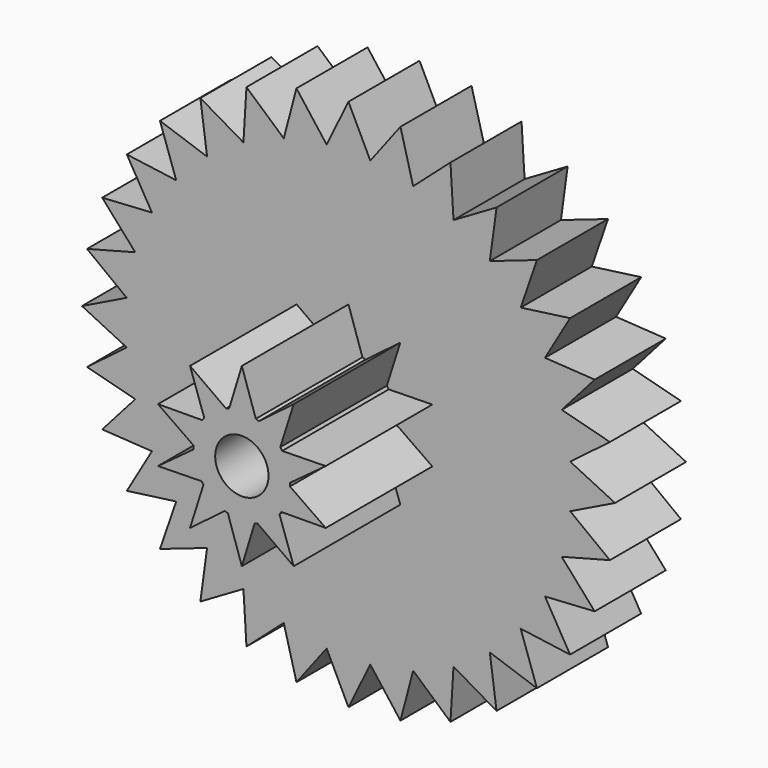
from build123d import *

# Parameters (mm, degrees)
F1_DEPTH = 5.08
F3_DEPTH = 7.62
F4_R     = 1.524
F5_DEPTH = 12.7


with BuildPart() as f1:
    # F0 (on Front) → F1 (new body)
    with BuildSketch(Plane.XZ):
        with BuildLine():
            ThreePointArc((-5.9644082014, 11.2123072919), (-4.860079591, 11.7332700629), (-3.7108250339, 12.1457720038))
            Line((-3.7108250339, 12.1457720038), (-3.698536468, 12.1924407546))
            Line((-3.698536468, 12.1924407546), (-5.8320955092, 14.0799240755))
            Line((-5.8320955092, 14.0799240755), (-6.0060973198, 11.2366177537))
            Line((-6.0060973198, 11.2366177537), (-5.9644082014, 11.2123072919))
        make_face()
        with BuildLine():
            Line((6.0060973198, -11.2366177537), (5.9644082014, -11.2123072919))
            ThreePointArc((5.9644082014, -11.2123072919), (4.860079591, -11.7332700629), (3.7108250339, -12.1457720038))
            Line((3.7108250339, -12.1457720038), (3.698536468, -12.1924407546))
            Line((3.698536468, -12.1924407546), (5.8320955092, -14.0799240755))
            Line((5.8320955092, -14.0799240755), (6.0060973198, -11.2366177537))
        make_face()
        with BuildLine():
            Line((-11.2366177537, -6.0060973198), (-11.2123072919, -5.9644082014))
            ThreePointArc((-11.2123072919, -5.9644082014), (-11.7332700629, -4.860079591), (-12.1457720038, -3.7108250339))
            Line((-12.1457720038, -3.7108250339), (-12.1924407546, -3.698536468))
            Line((-12.1924407546, -3.698536468), (-14.0799240755, -5.8320955092))
            Line((-14.0799240755, -5.8320955092), (-11.2366177537, -6.0060973198))
        make_face()
        with BuildLine():
            Line((12.6797150948, -1.2488429339), (12.6363404513, -1.27))
            ThreePointArc((12.6363404513, -1.27), (12.4559730611, -2.4776470896), (12.1604642679, -3.6623911301))
            Line((12.1604642679, -3.6623911301), (12.1924407546, -3.698536468))
            Line((12.1924407546, -3.698536468), (14.9471676733, -2.9731765075))
            Line((14.9471676733, -2.9731765075), (12.6797150948, -1.2488429339))
        make_face()
        with BuildLine():
            Line((-1.2488429339, -12.6797150948), (-1.27, -12.6363404513))
            ThreePointArc((-1.27, -12.6363404513), (-2.4776470896, -12.4559730611), (-3.6623911301, -12.1604642679))
            Line((-3.6623911301, -12.1604642679), (-3.698536468, -12.1924407546))
            Line((-3.698536468, -12.1924407546), (-2.9731765075, -14.9471676733))
            Line((-2.9731765075, -14.9471676733), (-1.2488429339, -12.6797150948))
        make_face()
        with BuildLine():
            ThreePointArc((-12.6363404513, 1.27), (-12.4559730611, 2.4776470896), (-12.1604642679, 3.6623911301))
            Line((-12.1604642679, 3.6623911301), (-12.1924407546, 3.698536468))
            Line((-12.1924407546, 3.698536468), (-14.9471676733, 2.9731765075))
            Line((-14.9471676733, 2.9731765075), (-12.6797150948, 1.2488429339))
            Line((-12.6797150948, 1.2488429339), (-12.6363404513, 1.27))
        make_face()
        with BuildLine():
            ThreePointArc((-1.2196304216, 12.6413014217), (0, 12.7), (1.2196304216, 12.6413014217))
            Line((1.2196304216, 12.6413014217), (1.2488429339, 12.6797150948))
            Line((1.2488429339, 12.6797150948), (0, 15.24))
            Line((0, 15.24), (-1.2488429339, 12.6797150948))
            Line((-1.2488429339, 12.6797150948), (-1.2196304216, 12.6413014217))
        make_face()
        with BuildLine():
            ThreePointArc((1.27, 12.6363404513), (2.4776470896, 12.4559730611), (3.6623911301, 12.1604642679))
            Line((3.6623911301, 12.1604642679), (3.698536468, 12.1924407546))
            Line((3.698536468, 12.1924407546), (2.9731765075, 14.9471676733))
            Line((2.9731765075, 14.9471676733), (1.2488429339, 12.6797150948))
            Line((1.2488429339, 12.6797150948), (1.27, 12.6363404513))
        make_face()
        with BuildLine():
            ThreePointArc((12.6413014217, -1.2196304216), (12.6853168675, -0.6105210661), (12.7, 0))
            ThreePointArc((12.7, 0), (12.6853168675, 0.6105210661), (12.6413014217, 1.2196304216))
            ThreePointArc((12.6413014217, 1.2196304216), (12.6388460287, 1.2448176822), (12.6363404513, 1.27))
            ThreePointArc((12.6363404513, 1.27), (12.4559730611, 2.4776470896), (12.1604642679, 3.6623911301))
            ThreePointArc((12.1604642679, 3.6623911301), (12.1531422638, 3.6866154011), (12.1457720038, 3.7108250339))
            ThreePointArc((12.1457720038, 3.7108250339), (11.7332700629, 4.860079591), (11.2123072919, 5.9644082014))
            ThreePointArc((11.2123072919, 5.9644082014), (11.2004000572, 5.9867385577), (11.1884483497, 6.0090451427))
            ThreePointArc((11.1884483497, 6.0090451427), (10.5596640762, 7.0557419593), (9.8332676346, 8.0372164104))
            ThreePointArc((9.8332676346, 8.0372164104), (9.8172327577, 8.0567947089), (9.8011589, 8.0763410166))
            ThreePointArc((9.8011589, 8.0763410166), (8.9802561211, 8.9802561211), (8.0763410166, 9.8011589))
            ThreePointArc((8.0763410166, 9.8011589), (8.0567947089, 9.8172327577), (8.0372164104, 9.8332676346))
            ThreePointArc((8.0372164104, 9.8332676346), (7.0557419593, 10.5596640762), (6.0090451427, 11.1884483497))
            ThreePointArc((6.0090451427, 11.1884483497), (5.9867385577, 11.2004000572), (5.9644082014, 11.2123072919))
            ThreePointArc((5.9644082014, 11.2123072919), (4.860079591, 11.7332700629), (3.7108250339, 12.1457720038))
            ThreePointArc((3.7108250339, 12.1457720038), (3.6866154011, 12.1531422638), (3.6623911301, 12.1604642679))
            ThreePointArc((3.6623911301, 12.1604642679), (2.4776470896, 12.4559730611), (1.27, 12.6363404513))
            ThreePointArc((1.27, 12.6363404513), (1.2448176822, 12.6388460287), (1.2196304216, 12.6413014217))
            ThreePointArc((1.2196304216, 12.6413014217), (0, 12.7), (-1.2196304216, 12.6413014217))
            ThreePointArc((-1.2196304216, 12.6413014217), (-1.2448176822, 12.6388460287), (-1.27, 12.6363404513))
            ThreePointArc((-1.27, 12.6363404513), (-2.4776470896, 12.4559730611), (-3.6623911301, 12.1604642679))
            ThreePointArc((-3.6623911301, 12.1604642679), (-3.6866154011, 12.1531422638), (-3.7108250339, 12.1457720038))
            ThreePointArc((-3.7108250339, 12.1457720038), (-4.860079591, 11.7332700629), (-5.9644082014, 11.2123072919))
            ThreePointArc((-5.9644082014, 11.2123072919), (-5.9867385577, 11.2004000572), (-6.0090451427, 11.1884483497))
            ThreePointArc((-6.0090451427, 11.1884483497), (-7.0557419593, 10.5596640762), (-8.0372164104, 9.8332676346))
            ThreePointArc((-8.0372164104, 9.8332676346), (-8.0567947089, 9.8172327577), (-8.0763410166, 9.8011589))
            ThreePointArc((-8.0763410166, 9.8011589), (-8.9802561211, 8.9802561211), (-9.8011589, 8.0763410166))
            ThreePointArc((-9.8011589, 8.0763410166), (-9.8172327577, 8.0567947089), (-9.8332676346, 8.0372164104))
            ThreePointArc((-9.8332676346, 8.0372164104), (-10.5596640762, 7.0557419593), (-11.1884483497, 6.0090451427))
            ThreePointArc((-11.1884483497, 6.0090451427), (-11.2004000572, 5.9867385577), (-11.2123072919, 5.9644082014))
            ThreePointArc((-11.2123072919, 5.9644082014), (-11.7332700629, 4.860079591), (-12.1457720038, 3.7108250339))
            ThreePointArc((-12.1457720038, 3.7108250339), (-12.1531422638, 3.6866154011), (-12.1604642679, 3.6623911301))
            ThreePointArc((-12.1604642679, 3.6623911301), (-12.4559730611, 2.4776470896), (-12.6363404513, 1.27))
            ThreePointArc((-12.6363404513, 1.27), (-12.6388460287, 1.2448176822), (-12.6413014217, 1.2196304216))
            ThreePointArc((-12.6413014217, 1.2196304216), (-12.7, 0), (-12.6413014217, -1.2196304216))
            ThreePointArc((-12.6413014217, -1.2196304216), (-12.6388460287, -1.2448176822), (-12.6363404513, -1.27))
            ThreePointArc((-12.6363404513, -1.27), (-12.4559730611, -2.4776470896), (-12.1604642679, -3.6623911301))
            ThreePointArc((-12.1604642679, -3.6623911301), (-12.1531422638, -3.6866154011), (-12.1457720038, -3.7108250339))
            ThreePointArc((-12.1457720038, -3.7108250339), (-11.7332700629, -4.860079591), (-11.2123072919, -5.9644082014))
            ThreePointArc((-11.2123072919, -5.9644082014), (-11.2004000572, -5.9867385577), (-11.1884483497, -6.0090451427))
            ThreePointArc((-11.1884483497, -6.0090451427), (-10.5596640762, -7.0557419593), (-9.8332676346, -8.0372164104))
            ThreePointArc((-9.8332676346, -8.0372164104), (-9.8172327577, -8.0567947089), (-9.8011589, -8.0763410166))
            ThreePointArc((-9.8011589, -8.0763410166), (-8.9802561211, -8.9802561211), (-8.0763410166, -9.8011589))
            ThreePointArc((-8.0763410166, -9.8011589), (-8.0567947089, -9.8172327577), (-8.0372164104, -9.8332676346))
            ThreePointArc((-8.0372164104, -9.8332676346), (-7.0557419593, -10.5596640762), (-6.0090451427, -11.1884483497))
            ThreePointArc((-6.0090451427, -11.1884483497), (-5.9867385577, -11.2004000572), (-5.9644082014, -11.2123072919))
            ThreePointArc((-5.9644082014, -11.2123072919), (-4.860079591, -11.7332700629), (-3.7108250339, -12.1457720038))
            ThreePointArc((-3.7108250339, -12.1457720038), (-3.6866154011, -12.1531422638), (-3.6623911301, -12.1604642679))
            ThreePointArc((-3.6623911301, -12.1604642679), (-2.4776470896, -12.4559730611), (-1.27, -12.6363404513))
            ThreePointArc((-1.27, -12.6363404513), (-1.2448176822, -12.6388460287), (-1.2196304216, -12.6413014217))
            ThreePointArc((-1.2196304216, -12.6413014217), (0, -12.7), (1.2196304216, -12.6413014217))
            ThreePointArc((1.2196304216, -12.6413014217), (1.2448176822, -12.6388460287), (1.27, -12.6363404513))
            ThreePointArc((1.27, -12.6363404513), (2.4776470896, -12.4559730611), (3.6623911301, -12.1604642679))
            ThreePointArc((3.6623911301, -12.1604642679), (3.6866154011, -12.1531422638), (3.7108250339, -12.1457720038))
            ThreePointArc((3.7108250339, -12.1457720038), (4.860079591, -11.7332700629), (5.9644082014, -11.2123072919))
            ThreePointArc((5.9644082014, -11.2123072919), (5.9867385577, -11.2004000572), (6.0090451427, -11.1884483497))
            ThreePointArc((6.0090451427, -11.1884483497), (7.0557419593, -10.5596640762), (8.0372164104, -9.8332676346))
            ThreePointArc((8.0372164104, -9.8332676346), (8.0567947089, -9.8172327577), (8.0763410166, -9.8011589))
            ThreePointArc((8.0763410166, -9.8011589), (8.9802561211, -8.9802561211), (9.8011589, -8.0763410166))
            ThreePointArc((9.8011589, -8.0763410166), (9.8172327577, -8.0567947089), (9.8332676346, -8.0372164104))
            ThreePointArc((9.8332676346, -8.0372164104), (10.5596640762, -7.0557419593), (11.1884483497, -6.0090451427))
            ThreePointArc((11.1884483497, -6.0090451427), (11.2004000572, -5.9867385577), (11.2123072919, -5.9644082014))
            ThreePointArc((11.2123072919, -5.9644082014), (11.7332700629, -4.860079591), (12.1457720038, -3.7108250339))
            ThreePointArc((12.1457720038, -3.7108250339), (12.1531422638, -3.6866154011), (12.1604642679, -3.6623911301))
            ThreePointArc((12.1604642679, -3.6623911301), (12.4559730611, -2.4776470896), (12.6363404513, -1.27))
            ThreePointArc((12.6363404513, -1.27), (12.6388460287, -1.2448176822), (12.6413014217, -1.2196304216))
        make_face()
        with BuildLine():
            ThreePointArc((12.1604642679, 3.6623911301), (12.4559730611, 2.4776470896), (12.6363404513, 1.27))
            Line((12.6363404513, 1.27), (12.6797150948, 1.2488429339))
            Line((12.6797150948, 1.2488429339), (14.9471676733, 2.9731765075))
            Line((14.9471676733, 2.9731765075), (12.1924407546, 3.698536468))
            Line((12.1924407546, 3.698536468), (12.1604642679, 3.6623911301))
        make_face()
        with BuildLine():
            ThreePointArc((11.2123072919, 5.9644082014), (11.7332700629, 4.860079591), (12.1457720038, 3.7108250339))
            Line((12.1457720038, 3.7108250339), (12.1924407546, 3.698536468))
            Line((12.1924407546, 3.698536468), (14.0799240755, 5.8320955092))
            Line((14.0799240755, 5.8320955092), (11.2366177537, 6.0060973198))
            Line((11.2366177537, 6.0060973198), (11.2123072919, 5.9644082014))
        make_face()
        with BuildLine():
            ThreePointArc((9.8332676346, 8.0372164104), (10.5596640762, 7.0557419593), (11.1884483497, 6.0090451427))
            Line((11.1884483497, 6.0090451427), (11.2366177537, 6.0060973198))
            Line((11.2366177537, 6.0060973198), (12.6715968915, 8.4668903512))
            Line((12.6715968915, 8.4668903512), (9.8489778342, 8.0828472199))
            Line((9.8489778342, 8.0828472199), (9.8332676346, 8.0372164104))
        make_face()
        with BuildLine():
            ThreePointArc((8.0763410166, 9.8011589), (8.9802561211, 8.9802561211), (9.8011589, 8.0763410166))
            Line((9.8011589, 8.0763410166), (9.8489778342, 8.0828472199))
            Line((9.8489778342, 8.0828472199), (10.7763073453, 10.7763073453))
            Line((10.7763073453, 10.7763073453), (8.0828472199, 9.8489778342))
            Line((8.0828472199, 9.8489778342), (8.0763410166, 9.8011589))
        make_face()
        with BuildLine():
            ThreePointArc((6.0090451427, 11.1884483497), (7.0557419593, 10.5596640762), (8.0372164104, 9.8332676346))
            Line((8.0372164104, 9.8332676346), (8.0828472199, 9.8489778342))
            Line((8.0828472199, 9.8489778342), (8.4668903512, 12.6715968915))
            Line((8.4668903512, 12.6715968915), (6.0060973198, 11.2366177537))
            Line((6.0060973198, 11.2366177537), (6.0090451427, 11.1884483497))
        make_face()
        with BuildLine():
            ThreePointArc((3.7108250339, 12.1457720038), (4.860079591, 11.7332700629), (5.9644082014, 11.2123072919))
            Line((5.9644082014, 11.2123072919), (6.0060973198, 11.2366177537))
            Line((6.0060973198, 11.2366177537), (5.8320955092, 14.0799240755))
            Line((5.8320955092, 14.0799240755), (3.698536468, 12.1924407546))
            Line((3.698536468, 12.1924407546), (3.7108250339, 12.1457720038))
        make_face()
        with BuildLine():
            Line((12.1924407546, -3.698536468), (12.1457720038, -3.7108250339))
            ThreePointArc((12.1457720038, -3.7108250339), (11.7332700629, -4.860079591), (11.2123072919, -5.9644082014))
            Line((11.2123072919, -5.9644082014), (11.2366177537, -6.0060973198))
            Line((11.2366177537, -6.0060973198), (14.0799240755, -5.8320955092))
            Line((14.0799240755, -5.8320955092), (12.1924407546, -3.698536468))
        make_face()
        with BuildLine():
            Line((-3.698536468, -12.1924407546), (-3.7108250339, -12.1457720038))
            ThreePointArc((-3.7108250339, -12.1457720038), (-4.860079591, -11.7332700629), (-5.9644082014, -11.2123072919))
            Line((-5.9644082014, -11.2123072919), (-6.0060973198, -11.2366177537))
            Line((-6.0060973198, -11.2366177537), (-5.8320955092, -14.0799240755))
            Line((-5.8320955092, -14.0799240755), (-3.698536468, -12.1924407546))
        make_face()
        with BuildLine():
            ThreePointArc((-12.1457720038, 3.7108250339), (-11.7332700629, 4.860079591), (-11.2123072919, 5.9644082014))
            Line((-11.2123072919, 5.9644082014), (-11.2366177537, 6.0060973198))
            Line((-11.2366177537, 6.0060973198), (-14.0799240755, 5.8320955092))
            Line((-14.0799240755, 5.8320955092), (-12.1924407546, 3.698536468))
            Line((-12.1924407546, 3.698536468), (-12.1457720038, 3.7108250339))
        make_face()
        with BuildLine():
            Line((9.8489778342, -8.0828472199), (9.8011589, -8.0763410166))
            ThreePointArc((9.8011589, -8.0763410166), (8.9802561211, -8.9802561211), (8.0763410166, -9.8011589))
            Line((8.0763410166, -9.8011589), (8.0828472199, -9.8489778342))
            Line((8.0828472199, -9.8489778342), (10.7763073453, -10.7763073453))
            Line((10.7763073453, -10.7763073453), (9.8489778342, -8.0828472199))
        make_face()
        with BuildLine():
            Line((-8.0828472199, -9.8489778342), (-8.0763410166, -9.8011589))
            ThreePointArc((-8.0763410166, -9.8011589), (-8.9802561211, -8.9802561211), (-9.8011589, -8.0763410166))
            Line((-9.8011589, -8.0763410166), (-9.8489778342, -8.0828472199))
            Line((-9.8489778342, -8.0828472199), (-10.7763073453, -10.7763073453))
            Line((-10.7763073453, -10.7763073453), (-8.0828472199, -9.8489778342))
        make_face()
        with BuildLine():
            ThreePointArc((-9.8011589, 8.0763410166), (-8.9802561211, 8.9802561211), (-8.0763410166, 9.8011589))
            Line((-8.0763410166, 9.8011589), (-8.0828472199, 9.8489778342))
            Line((-8.0828472199, 9.8489778342), (-10.7763073453, 10.7763073453))
            Line((-10.7763073453, 10.7763073453), (-9.8489778342, 8.0828472199))
            Line((-9.8489778342, 8.0828472199), (-9.8011589, 8.0763410166))
        make_face()
        with BuildLine():
            ThreePointArc((-8.0372164104, 9.8332676346), (-7.0557419593, 10.5596640762), (-6.0090451427, 11.1884483497))
            Line((-6.0090451427, 11.1884483497), (-6.0060973198, 11.2366177537))
            Line((-6.0060973198, 11.2366177537), (-8.4668903512, 12.6715968915))
            Line((-8.4668903512, 12.6715968915), (-8.0828472199, 9.8489778342))
            Line((-8.0828472199, 9.8489778342), (-8.0372164104, 9.8332676346))
        make_face()
        with BuildLine():
            Line((8.0828472199, -9.8489778342), (8.0372164104, -9.8332676346))
            ThreePointArc((8.0372164104, -9.8332676346), (7.0557419593, -10.5596640762), (6.0090451427, -11.1884483497))
            Line((6.0090451427, -11.1884483497), (6.0060973198, -11.2366177537))
            Line((6.0060973198, -11.2366177537), (8.4668903512, -12.6715968915))
            Line((8.4668903512, -12.6715968915), (8.0828472199, -9.8489778342))
        make_face()
        with BuildLine():
            Line((-9.8489778342, -8.0828472199), (-9.8332676346, -8.0372164104))
            ThreePointArc((-9.8332676346, -8.0372164104), (-10.5596640762, -7.0557419593), (-11.1884483497, -6.0090451427))
            Line((-11.1884483497, -6.0090451427), (-11.2366177537, -6.0060973198))
            Line((-11.2366177537, -6.0060973198), (-12.6715968915, -8.4668903512))
            Line((-12.6715968915, -8.4668903512), (-9.8489778342, -8.0828472199))
        make_face()
        with BuildLine():
            ThreePointArc((-3.6623911301, 12.1604642679), (-2.4776470896, 12.4559730611), (-1.27, 12.6363404513))
            Line((-1.27, 12.6363404513), (-1.2488429339, 12.6797150948))
            Line((-1.2488429339, 12.6797150948), (-2.9731765075, 14.9471676733))
            Line((-2.9731765075, 14.9471676733), (-3.698536468, 12.1924407546))
            Line((-3.698536468, 12.1924407546), (-3.6623911301, 12.1604642679))
        make_face()
        with BuildLine():
            Line((3.698536468, -12.1924407546), (3.6623911301, -12.1604642679))
            ThreePointArc((3.6623911301, -12.1604642679), (2.4776470896, -12.4559730611), (1.27, -12.6363404513))
            Line((1.27, -12.6363404513), (1.2488429339, -12.6797150948))
            Line((1.2488429339, -12.6797150948), (2.9731765075, -14.9471676733))
            Line((2.9731765075, -14.9471676733), (3.698536468, -12.1924407546))
        make_face()
        with BuildLine():
            Line((-12.1924407546, -3.698536468), (-12.1604642679, -3.6623911301))
            ThreePointArc((-12.1604642679, -3.6623911301), (-12.4559730611, -2.4776470896), (-12.6363404513, -1.27))
            Line((-12.6363404513, -1.27), (-12.6797150948, -1.2488429339))
            Line((-12.6797150948, -1.2488429339), (-14.9471676733, -2.9731765075))
            Line((-14.9471676733, -2.9731765075), (-12.1924407546, -3.698536468))
        make_face()
        with BuildLine():
            ThreePointArc((-12.6413014217, -1.2196304216), (-12.7, 0), (-12.6413014217, 1.2196304216))
            Line((-12.6413014217, 1.2196304216), (-12.6797150948, 1.2488429339))
            Line((-12.6797150948, 1.2488429339), (-15.24, 0))
            Line((-15.24, 0), (-12.6797150948, -1.2488429339))
            Line((-12.6797150948, -1.2488429339), (-12.6413014217, -1.2196304216))
        make_face()
        with BuildLine():
            Line((11.2366177537, -6.0060973198), (11.1884483497, -6.0090451427))
            ThreePointArc((11.1884483497, -6.0090451427), (10.5596640762, -7.0557419593), (9.8332676346, -8.0372164104))
            Line((9.8332676346, -8.0372164104), (9.8489778342, -8.0828472199))
            Line((9.8489778342, -8.0828472199), (12.6715968915, -8.4668903512))
            Line((12.6715968915, -8.4668903512), (11.2366177537, -6.0060973198))
        make_face()
        with BuildLine():
            Line((-6.0060973198, -11.2366177537), (-6.0090451427, -11.1884483497))
            ThreePointArc((-6.0090451427, -11.1884483497), (-7.0557419593, -10.5596640762), (-8.0372164104, -9.8332676346))
            Line((-8.0372164104, -9.8332676346), (-8.0828472199, -9.8489778342))
            Line((-8.0828472199, -9.8489778342), (-8.4668903512, -12.6715968915))
            Line((-8.4668903512, -12.6715968915), (-6.0060973198, -11.2366177537))
        make_face()
        with BuildLine():
            ThreePointArc((-11.1884483497, 6.0090451427), (-10.5596640762, 7.0557419593), (-9.8332676346, 8.0372164104))
            Line((-9.8332676346, 8.0372164104), (-9.8489778342, 8.0828472199))
            Line((-9.8489778342, 8.0828472199), (-12.6715968915, 8.4668903512))
            Line((-12.6715968915, 8.4668903512), (-11.2366177537, 6.0060973198))
            Line((-11.2366177537, 6.0060973198), (-11.1884483497, 6.0090451427))
        make_face()
        with BuildLine():
            Line((1.2488429339, -12.6797150948), (1.2196304216, -12.6413014217))
            ThreePointArc((1.2196304216, -12.6413014217), (0, -12.7), (-1.2196304216, -12.6413014217))
            Line((-1.2196304216, -12.6413014217), (-1.2488429339, -12.6797150948))
            Line((-1.2488429339, -12.6797150948), (0, -15.24))
            Line((0, -15.24), (1.2488429339, -12.6797150948))
        make_face()
        with BuildLine():
            Line((8.0828472199, -9.8489778342), (8.0763410166, -9.8011589))
            ThreePointArc((8.0763410166, -9.8011589), (8.0567947089, -9.8172327577), (8.0372164104, -9.8332676346))
            Line((8.0372164104, -9.8332676346), (8.0828472199, -9.8489778342))
        make_face()
        with BuildLine():
            ThreePointArc((8.0372164104, 9.8332676346), (8.0567947089, 9.8172327577), (8.0763410166, 9.8011589))
            Line((8.0763410166, 9.8011589), (8.0828472199, 9.8489778342))
            Line((8.0828472199, 9.8489778342), (8.0372164104, 9.8332676346))
        make_face()
        with BuildLine():
            ThreePointArc((12.6413014217, 1.2196304216), (12.6853168675, 0.6105210661), (12.7, 0))
            ThreePointArc((12.7, 0), (12.6853168675, -0.6105210661), (12.6413014217, -1.2196304216))
            Line((12.6413014217, -1.2196304216), (12.6797150948, -1.2488429339))
            Line((12.6797150948, -1.2488429339), (15.24, 0))
            Line((15.24, 0), (12.6797150948, 1.2488429339))
            Line((12.6797150948, 1.2488429339), (12.6413014217, 1.2196304216))
        make_face()
        with BuildLine():
            Line((11.2366177537, -6.0060973198), (11.2123072919, -5.9644082014))
            ThreePointArc((11.2123072919, -5.9644082014), (11.2004000572, -5.9867385577), (11.1884483497, -6.0090451427))
            Line((11.1884483497, -6.0090451427), (11.2366177537, -6.0060973198))
        make_face()
        with BuildLine():
            Line((-6.0060973198, -11.2366177537), (-5.9644082014, -11.2123072919))
            ThreePointArc((-5.9644082014, -11.2123072919), (-5.9867385577, -11.2004000572), (-6.0090451427, -11.1884483497))
            Line((-6.0090451427, -11.1884483497), (-6.0060973198, -11.2366177537))
        make_face()
        with BuildLine():
            ThreePointArc((-11.2123072919, 5.9644082014), (-11.2004000572, 5.9867385577), (-11.1884483497, 6.0090451427))
            Line((-11.1884483497, 6.0090451427), (-11.2366177537, 6.0060973198))
            Line((-11.2366177537, 6.0060973198), (-11.2123072919, 5.9644082014))
        make_face()
        with BuildLine():
            Line((-9.8489778342, -8.0828472199), (-9.8011589, -8.0763410166))
            ThreePointArc((-9.8011589, -8.0763410166), (-9.8172327577, -8.0567947089), (-9.8332676346, -8.0372164104))
            Line((-9.8332676346, -8.0372164104), (-9.8489778342, -8.0828472199))
        make_face()
        with BuildLine():
            ThreePointArc((-8.0763410166, 9.8011589), (-8.0567947089, 9.8172327577), (-8.0372164104, 9.8332676346))
            Line((-8.0372164104, 9.8332676346), (-8.0828472199, 9.8489778342))
            Line((-8.0828472199, 9.8489778342), (-8.0763410166, 9.8011589))
        make_face()
        with BuildLine():
            ThreePointArc((-6.0090451427, 11.1884483497), (-5.9867385577, 11.2004000572), (-5.9644082014, 11.2123072919))
            Line((-5.9644082014, 11.2123072919), (-6.0060973198, 11.2366177537))
            Line((-6.0060973198, 11.2366177537), (-6.0090451427, 11.1884483497))
        make_face()
        with BuildLine():
            Line((6.0060973198, -11.2366177537), (6.0090451427, -11.1884483497))
            ThreePointArc((6.0090451427, -11.1884483497), (5.9867385577, -11.2004000572), (5.9644082014, -11.2123072919))
            Line((5.9644082014, -11.2123072919), (6.0060973198, -11.2366177537))
        make_face()
        with BuildLine():
            Line((-11.2366177537, -6.0060973198), (-11.1884483497, -6.0090451427))
            ThreePointArc((-11.1884483497, -6.0090451427), (-11.2004000572, -5.9867385577), (-11.2123072919, -5.9644082014))
            Line((-11.2123072919, -5.9644082014), (-11.2366177537, -6.0060973198))
        make_face()
        with BuildLine():
            ThreePointArc((-1.27, 12.6363404513), (-1.2448176822, 12.6388460287), (-1.2196304216, 12.6413014217))
            Line((-1.2196304216, 12.6413014217), (-1.2488429339, 12.6797150948))
            Line((-1.2488429339, 12.6797150948), (-1.27, 12.6363404513))
        make_face()
        with BuildLine():
            ThreePointArc((12.6363404513, 1.27), (12.6388460287, 1.2448176822), (12.6413014217, 1.2196304216))
            Line((12.6413014217, 1.2196304216), (12.6797150948, 1.2488429339))
            Line((12.6797150948, 1.2488429339), (12.6363404513, 1.27))
        make_face()
        with BuildLine():
            Line((12.6797150948, -1.2488429339), (12.6413014217, -1.2196304216))
            ThreePointArc((12.6413014217, -1.2196304216), (12.6388460287, -1.2448176822), (12.6363404513, -1.27))
            Line((12.6363404513, -1.27), (12.6797150948, -1.2488429339))
        make_face()
        with BuildLine():
            ThreePointArc((-12.6413014217, 1.2196304216), (-12.6388460287, 1.2448176822), (-12.6363404513, 1.27))
            Line((-12.6363404513, 1.27), (-12.6797150948, 1.2488429339))
            Line((-12.6797150948, 1.2488429339), (-12.6413014217, 1.2196304216))
        make_face()
        with BuildLine():
            Line((12.1924407546, -3.698536468), (12.1604642679, -3.6623911301))
            ThreePointArc((12.1604642679, -3.6623911301), (12.1531422638, -3.6866154011), (12.1457720038, -3.7108250339))
            Line((12.1457720038, -3.7108250339), (12.1924407546, -3.698536468))
        make_face()
        with BuildLine():
            ThreePointArc((-12.1604642679, 3.6623911301), (-12.1531422638, 3.6866154011), (-12.1457720038, 3.7108250339))
            Line((-12.1457720038, 3.7108250339), (-12.1924407546, 3.698536468))
            Line((-12.1924407546, 3.698536468), (-12.1604642679, 3.6623911301))
        make_face()
        with BuildLine():
            Line((9.8489778342, -8.0828472199), (9.8332676346, -8.0372164104))
            ThreePointArc((9.8332676346, -8.0372164104), (9.8172327577, -8.0567947089), (9.8011589, -8.0763410166))
            Line((9.8011589, -8.0763410166), (9.8489778342, -8.0828472199))
        make_face()
        with BuildLine():
            Line((-8.0828472199, -9.8489778342), (-8.0372164104, -9.8332676346))
            ThreePointArc((-8.0372164104, -9.8332676346), (-8.0567947089, -9.8172327577), (-8.0763410166, -9.8011589))
            Line((-8.0763410166, -9.8011589), (-8.0828472199, -9.8489778342))
        make_face()
        with BuildLine():
            ThreePointArc((-9.8332676346, 8.0372164104), (-9.8172327577, 8.0567947089), (-9.8011589, 8.0763410166))
            Line((-9.8011589, 8.0763410166), (-9.8489778342, 8.0828472199))
            Line((-9.8489778342, 8.0828472199), (-9.8332676346, 8.0372164104))
        make_face()
        with BuildLine():
            ThreePointArc((-3.7108250339, 12.1457720038), (-3.6866154011, 12.1531422638), (-3.6623911301, 12.1604642679))
            Line((-3.6623911301, 12.1604642679), (-3.698536468, 12.1924407546))
            Line((-3.698536468, 12.1924407546), (-3.7108250339, 12.1457720038))
        make_face()
        with BuildLine():
            Line((3.698536468, -12.1924407546), (3.7108250339, -12.1457720038))
            ThreePointArc((3.7108250339, -12.1457720038), (3.6866154011, -12.1531422638), (3.6623911301, -12.1604642679))
            Line((3.6623911301, -12.1604642679), (3.698536468, -12.1924407546))
        make_face()
        with BuildLine():
            ThreePointArc((1.2196304216, 12.6413014217), (1.2448176822, 12.6388460287), (1.27, 12.6363404513))
            Line((1.27, 12.6363404513), (1.2488429339, 12.6797150948))
            Line((1.2488429339, 12.6797150948), (1.2196304216, 12.6413014217))
        make_face()
        with BuildLine():
            Line((1.2488429339, -12.6797150948), (1.27, -12.6363404513))
            ThreePointArc((1.27, -12.6363404513), (1.2448176822, -12.6388460287), (1.2196304216, -12.6413014217))
            Line((1.2196304216, -12.6413014217), (1.2488429339, -12.6797150948))
        make_face()
        with BuildLine():
            Line((-12.6797150948, -1.2488429339), (-12.6363404513, -1.27))
            ThreePointArc((-12.6363404513, -1.27), (-12.6388460287, -1.2448176822), (-12.6413014217, -1.2196304216))
            Line((-12.6413014217, -1.2196304216), (-12.6797150948, -1.2488429339))
        make_face()
        with BuildLine():
            ThreePointArc((12.1457720038, 3.7108250339), (12.1531422638, 3.6866154011), (12.1604642679, 3.6623911301))
            Line((12.1604642679, 3.6623911301), (12.1924407546, 3.698536468))
            Line((12.1924407546, 3.698536468), (12.1457720038, 3.7108250339))
        make_face()
        with BuildLine():
            ThreePointArc((11.1884483497, 6.0090451427), (11.2004000572, 5.9867385577), (11.2123072919, 5.9644082014))
            Line((11.2123072919, 5.9644082014), (11.2366177537, 6.0060973198))
            Line((11.2366177537, 6.0060973198), (11.1884483497, 6.0090451427))
        make_face()
        with BuildLine():
            ThreePointArc((9.8011589, 8.0763410166), (9.8172327577, 8.0567947089), (9.8332676346, 8.0372164104))
            Line((9.8332676346, 8.0372164104), (9.8489778342, 8.0828472199))
            Line((9.8489778342, 8.0828472199), (9.8011589, 8.0763410166))
        make_face()
        with BuildLine():
            ThreePointArc((5.9644082014, 11.2123072919), (5.9867385577, 11.2004000572), (6.0090451427, 11.1884483497))
            Line((6.0090451427, 11.1884483497), (6.0060973198, 11.2366177537))
            Line((6.0060973198, 11.2366177537), (5.9644082014, 11.2123072919))
        make_face()
        with BuildLine():
            ThreePointArc((3.6623911301, 12.1604642679), (3.6866154011, 12.1531422638), (3.7108250339, 12.1457720038))
            Line((3.7108250339, 12.1457720038), (3.698536468, 12.1924407546))
            Line((3.698536468, 12.1924407546), (3.6623911301, 12.1604642679))
        make_face()
        with BuildLine():
            Line((-1.2488429339, -12.6797150948), (-1.2196304216, -12.6413014217))
            ThreePointArc((-1.2196304216, -12.6413014217), (-1.2448176822, -12.6388460287), (-1.27, -12.6363404513))
            Line((-1.27, -12.6363404513), (-1.2488429339, -12.6797150948))
        make_face()
        with BuildLine():
            Line((-3.698536468, -12.1924407546), (-3.6623911301, -12.1604642679))
            ThreePointArc((-3.6623911301, -12.1604642679), (-3.6866154011, -12.1531422638), (-3.7108250339, -12.1457720038))
            Line((-3.7108250339, -12.1457720038), (-3.698536468, -12.1924407546))
        make_face()
        with BuildLine():
            Line((-12.1924407546, -3.698536468), (-12.1457720038, -3.7108250339))
            ThreePointArc((-12.1457720038, -3.7108250339), (-12.1531422638, -3.6866154011), (-12.1604642679, -3.6623911301))
            Line((-12.1604642679, -3.6623911301), (-12.1924407546, -3.698536468))
        make_face()
    extrude(amount=F1_DEPTH)

    # F2 (on face) → F3 (join)
    with BuildSketch(Plane.XZ.offset(5.08)):
        with BuildLine():
            ThreePointArc((2.7521991378, -0.1316104097), (2.754557786, -0.0658239908), (2.7553441517, 0))
            ThreePointArc((2.7553441517, 0), (2.7552046839, 0.0277226259), (2.7547862947, 0.0554424454))
            ThreePointArc((2.7547862947, 0.0554424454), (2.6320127799, 0.8151258312), (2.3039345323, 1.5112270065))
            ThreePointArc((2.3039345323, 1.5112270065), (2.2513051709, 1.5885674118), (2.1960806765, 1.6640766377))
            ThreePointArc((2.1960806765, 1.6640766377), (1.650224126, 2.2065089459), (0.9756452433, 2.5768270709))
            ThreePointArc((0.9756452433, 2.5768270709), (0.8876076458, 2.6084620107), (0.798546882, 2.6370901144))
            ThreePointArc((0.798546882, 2.6370901144), (0.038105945, 2.7550806397), (-0.7253073677, 2.6581667774))
            ThreePointArc((-0.7253073677, 2.6581667774), (-0.8151258312, 2.6320127799), (-0.9040046799, 2.6028247987))
            ThreePointArc((-0.9040046799, 2.6028247987), (-1.5885674118, 2.2513051709), (-2.1492172165, 1.7241771227))
            ThreePointArc((-2.1492172165, 1.7241771227), (-2.2065089459, 1.650224126), (-2.26125718, 1.5743688767))
            ThreePointArc((-2.26125718, 1.5743688767), (-2.6084620107, 0.8876076458), (-2.7521991378, 0.1316104097))
            ThreePointArc((-2.7521991378, 0.1316104097), (-2.7550806397, 0.038105945), (-2.7547862947, -0.0554424454))
            ThreePointArc((-2.7547862947, -0.0554424454), (-2.6320127799, -0.8151258312), (-2.3039345323, -1.5112270065))
            ThreePointArc((-2.3039345323, -1.5112270065), (-2.2513051709, -1.5885674118), (-2.1960806765, -1.6640766377))
            ThreePointArc((-2.1960806765, -1.6640766377), (-1.650224126, -2.2065089459), (-0.9756452433, -2.5768270709))
            ThreePointArc((-0.9756452433, -2.5768270709), (-0.8876076458, -2.6084620107), (-0.798546882, -2.6370901144))
            ThreePointArc((-0.798546882, -2.6370901144), (-0.038105945, -2.7550806397), (0.7253073677, -2.6581667774))
            ThreePointArc((0.7253073677, -2.6581667774), (0.8151258312, -2.6320127799), (0.9040046799, -2.6028247987))
            ThreePointArc((0.9040046799, -2.6028247987), (1.5885674118, -2.2513051709), (2.1492172165, -1.7241771227))
            ThreePointArc((2.1492172165, -1.7241771227), (2.2065089459, -1.650224126), (2.26125718, -1.5743688767))
            ThreePointArc((2.26125718, -1.5743688767), (2.6084620107, -0.8876076458), (2.7521991378, -0.1316104097))
        make_face()
        with BuildLine():
            ThreePointArc((2.3039345323, 1.5112270065), (2.6320127799, 0.8151258312), (2.7547862947, 0.0554424454))
            Line((2.7547862947, 0.0554424454), (4.7946032063, 1.5578610174))
            Line((4.7946032063, 1.5578610174), (2.3039345323, 1.5112270065))
        make_face()
        with BuildLine():
            Line((4.7946032063, -1.5578610174), (2.7521991378, -0.1316104097))
            ThreePointArc((2.7521991378, -0.1316104097), (2.6084620107, -0.8876076458), (2.26125718, -1.5743688767))
            Line((2.26125718, -1.5743688767), (4.7946032063, -1.5578610174))
        make_face()
        with BuildLine():
            ThreePointArc((0.9756452433, 2.5768270709), (1.650224126, 2.2065089459), (2.1960806765, 1.6640766377))
            Line((2.1960806765, 1.6640766377), (2.9632277441, 4.0785330932))
            Line((2.9632277441, 4.0785330932), (0.9756452433, 2.5768270709))
        make_face()
        with BuildLine():
            Line((2.9632277441, -4.0785330932), (2.1492172165, -1.7241771227))
            ThreePointArc((2.1492172165, -1.7241771227), (1.5885674118, -2.2513051709), (0.9040046799, -2.6028247987))
            Line((0.9040046799, -2.6028247987), (2.9632277441, -4.0785330932))
        make_face()
        with BuildLine():
            ThreePointArc((-0.7253073677, 2.6581667774), (0.038105945, 2.7550806397), (0.798546882, 2.6370901144))
            Line((0.798546882, 2.6370901144), (0, 5.0413441517))
            Line((0, 5.0413441517), (-0.7253073677, 2.6581667774))
        make_face()
        with BuildLine():
            Line((0, -5.0413441517), (0.7253073677, -2.6581667774))
            ThreePointArc((0.7253073677, -2.6581667774), (-0.038105945, -2.7550806397), (-0.798546882, -2.6370901144))
            Line((-0.798546882, -2.6370901144), (0, -5.0413441517))
        make_face()
        with BuildLine():
            ThreePointArc((-2.1492172165, 1.7241771227), (-1.5885674118, 2.2513051709), (-0.9040046799, 2.6028247987))
            Line((-0.9040046799, 2.6028247987), (-2.9632277441, 4.0785330932))
            Line((-2.9632277441, 4.0785330932), (-2.1492172165, 1.7241771227))
        make_face()
        with BuildLine():
            Line((-2.9632277441, -4.0785330932), (-0.9756452433, -2.5768270709))
            ThreePointArc((-0.9756452433, -2.5768270709), (-1.650224126, -2.2065089459), (-2.1960806765, -1.6640766377))
            Line((-2.1960806765, -1.6640766377), (-2.9632277441, -4.0785330932))
        make_face()
        with BuildLine():
            ThreePointArc((-2.7521991378, 0.1316104097), (-2.6084620107, 0.8876076458), (-2.26125718, 1.5743688767))
            Line((-2.26125718, 1.5743688767), (-4.7946032063, 1.5578610174))
            Line((-4.7946032063, 1.5578610174), (-2.7521991378, 0.1316104097))
        make_face()
        with BuildLine():
            Line((-4.7946032063, -1.5578610174), (-2.3039345323, -1.5112270065))
            ThreePointArc((-2.3039345323, -1.5112270065), (-2.6320127799, -0.8151258312), (-2.7547862947, -0.0554424454))
            Line((-2.7547862947, -0.0554424454), (-4.7946032063, -1.5578610174))
        make_face()
    extrude(amount=F3_DEPTH)

    # F4 (on face) → F5 (cut)
    with BuildSketch(Plane.XZ.offset(12.7)):
        Circle(F4_R)
    extrude(amount=-F5_DEPTH, mode=Mode.SUBTRACT)


solid = f1.part
